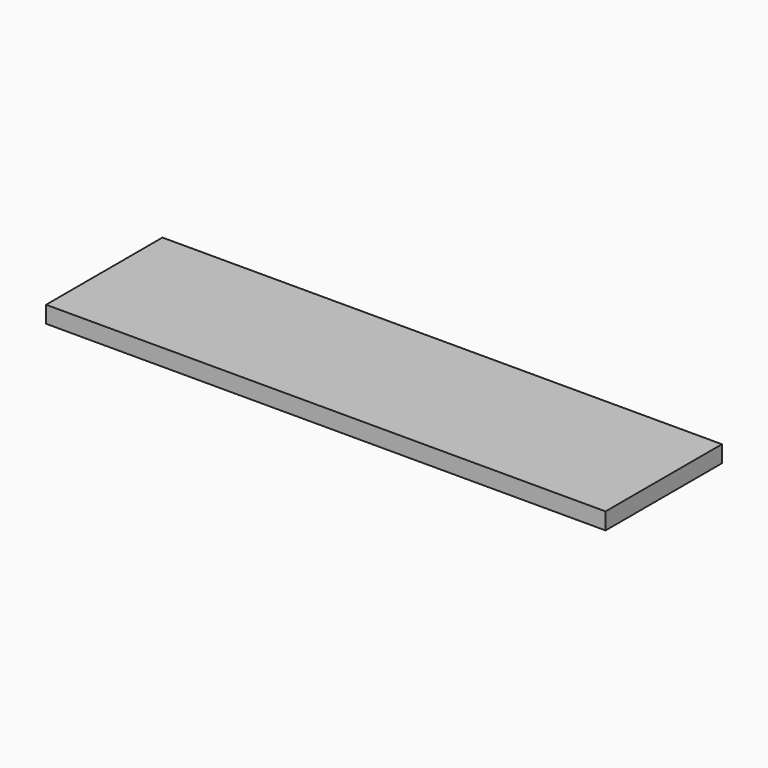
from build123d import *

# Parameters (mm, degrees)
F0_W          = 130
F0_H          = 15
F1_DEPTH      = 250
F1_DEPTH_BACK = 250


with BuildPart() as f1:
    # F0 (on Right) → F1 (new body, two sides)
    with BuildSketch(Plane.YZ) as f1_sk:
        with Locations((0, 7.5)):
            Rectangle(F0_W, F0_H)
    extrude(amount=-F1_DEPTH)
    extrude(f1_sk.sketch, amount=F1_DEPTH_BACK)


solid = f1.part
